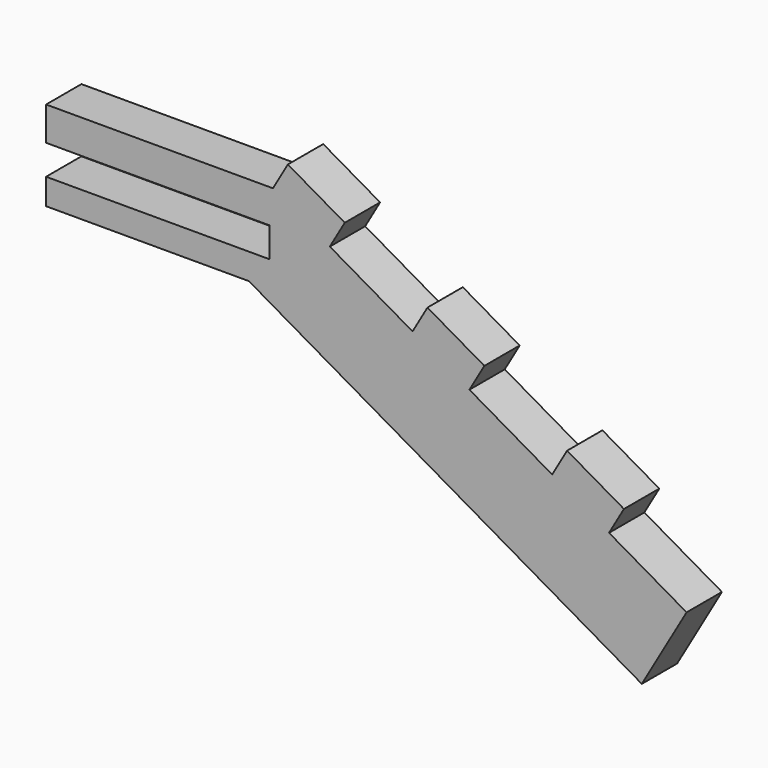
from build123d import *

# Parameters (mm, degrees)
F1_DEPTH = 7.4


with BuildPart() as f1:
    # F0 (on Front) → F1 (new body)
    with BuildSketch(Plane.XZ):
        Polygon((38, 15), (0, 15), (0, 9.349608), (37.428211, 9.349608), (37.428211, 4.349608), (0, 4.349608), (0, 0), (33.980762, 0), (99.782032, -37.990381), (107.282032, -25), (94.291651, -17.5), (96.791651, -13.169873), (87.265372, -7.669873), (84.765372, -12), (70.908965, -4), (73.408965, 0.330127), (63.882686, 5.830127), (61.382686, 1.5), (47.526279, 9.5), (50.026279, 13.830127), (40.5, 19.330127), align=None)
    extrude(amount=F1_DEPTH)


solid = f1.part
